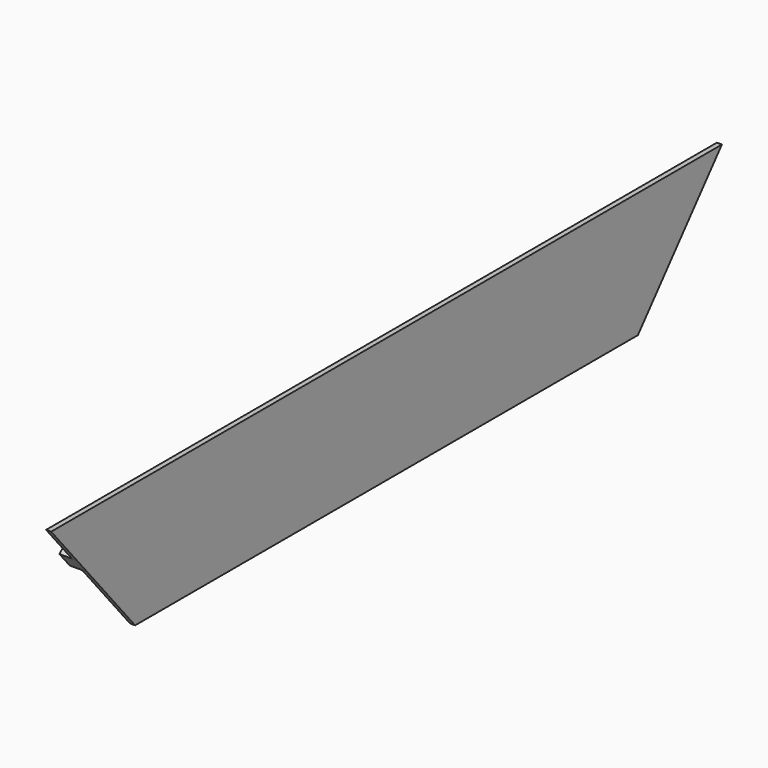
from build123d import *

# Parameters (mm, degrees)
F0_W     = 142
F0_H     = 2
F0_W_2   = 8
F1_DEPTH = 2
F2_DEPTH = 5


with BuildPart() as f1:
    # F0 (on Right) → F1 (new body)
    with BuildSketch(Plane.YZ):
        with Locations((-124.067385, -1)):
            Rectangle(F0_W, F0_H)
        with Locations((-49.067385, -1)):
            Rectangle(F0_W_2, F0_H)
        Polygon((-203.067385, -2), (-203.067385, 0), (-248.134769, 0), (-271.318437, 27.62922), (-272.850526, 26.343644), (-249.067385, -2), align=None)
        with Locations((-199.067385, -1)):
            Rectangle(F0_W_2, F0_H)
        Polygon((-276.460738, 33.757575), (-288.237765, 47.792889), (-290.848579, 47.792889), (-277.992827, 32.472), align=None)
        Polygon((-271.318437, 27.62922), (-276.460738, 33.757575), (-277.992827, 32.472), (-272.850526, 26.343644), align=None)
        Polygon((23.183668, 27.62922), (0, 0), (-45.067385, 0), (-45.067385, -2), (0.932615, -2), (24.715757, 26.343644), align=None)
        Polygon((-45.067385, 0), (0, 0), (23.183668, 27.62922), (28.325969, 33.757575), (40.102995, 47.792889), (-288.237765, 47.792889), (-276.460738, 33.757575), (-271.318437, 27.62922), (-248.134769, 0), (-203.067385, 0), (-195.067385, 0), (-53.067385, 0), align=None)
        Polygon((28.325969, 33.757575), (23.183668, 27.62922), (24.715757, 26.343644), (29.858058, 32.472), align=None)
        Polygon((40.102995, 47.792889), (28.325969, 33.757575), (29.858058, 32.472), (42.71381, 47.792889), align=None)
    extrude(amount=F1_DEPTH)

    # F0 (on Right) → F2 (join)
    with BuildSketch(Plane.YZ):
        with Locations((-49.067385, -1)):
            Rectangle(F0_W_2, F0_H)
        with Locations((-199.067385, -1)):
            Rectangle(F0_W_2, F0_H)
        Polygon((-271.318437, 27.62922), (-276.460738, 33.757575), (-277.992827, 32.472), (-272.850526, 26.343644), align=None)
        Polygon((28.325969, 33.757575), (23.183668, 27.62922), (24.715757, 26.343644), (29.858058, 32.472), align=None)
    extrude(amount=-F2_DEPTH)


solid = f1.part
